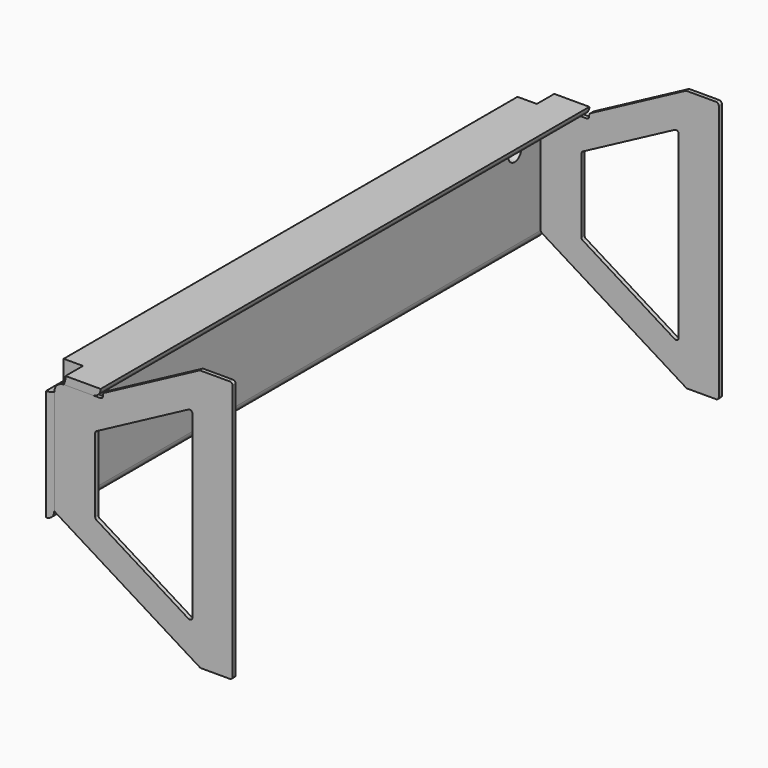
from build123d import *

# Parameters (mm, degrees)
F1_DEPTH  = 711.2
F2_R      = 22.225
F3_DEPTH  = 25.4
F4_R      = 22.225
F5_DEPTH  = 25.4
F6_R      = 9.525
F7_DEPTH  = 63.501
F9_DEPTH  = 4.572
F11_DEPTH = 4.572


with BuildPart() as f1:
    # F0 (on Front) → F1 (new body)
    with BuildSketch(Plane.XZ):
        with BuildLine():
            ThreePointArc((-46.844614, 105.246472), (-47.024219, 105.172077), (-47.098614, 104.992472))
            Line((-47.098614, 104.992472), (-47.098614, -47.153528))
            ThreePointArc((-47.098614, -47.153528), (-40.363422, -44.36372), (-37.573614, -37.628528))
            Line((-37.573614, -37.628528), (-37.573614, 86.196472))
            ThreePointArc((-37.573614, 86.196472), (-34.783806, 92.931664), (-28.048614, 95.721472))
            Line((-28.048614, 95.721472), (6.876386, 95.721472))
            ThreePointArc((6.876386, 95.721472), (13.611578, 98.51128), (16.401386, 105.246472))
            Line((16.401386, 105.246472), (-46.844614, 105.246472))
        make_face()
    extrude(amount=F1_DEPTH)

    # F2 (on face) → F3 (cut)
    with BuildSketch(Plane.XZ.offset(711.2)):
        with Locations((-46.665009, 104.812867)):
            Circle(F2_R)
    extrude(amount=-F3_DEPTH, mode=Mode.SUBTRACT)

    # F4 (on face) → F5 (cut)
    with BuildSketch(Plane(origin=(0, 0, 0), x_dir=(-1, 0, 0), z_dir=(0, 1, 0))):
        with Locations((46.665009, 104.812867)):
            Circle(F4_R)
    extrude(amount=-F5_DEPTH, mode=Mode.SUBTRACT)

    # F6 (on face) → F7 (cut, through all)
    with BuildSketch(Plane(origin=(-47.098614, 0, 0), x_dir=(0, -1, 0), z_dir=(-1, 0, 0))):
        with Locations((41.275, 57.367472)):
            Circle(F6_R)
        with Locations((669.925, 57.621472)):
            Circle(F6_R)
    extrude(amount=-F7_DEPTH, mode=Mode.SUBTRACT)


with BuildPart() as f9:
    # F8 (on face) → F9 (new body)
    with BuildSketch(Plane.XZ.offset(711.2)):
        with BuildLine():
            Line((131.165237, 161.450276), (20.805644, 102.675902))
            ThreePointArc((20.805644, 102.675902), (19.576044, 101.507878), (19.1231, 99.873546))
            Line((19.1231, 99.873546), (19.1231, 98.932497))
            ThreePointArc((19.1231, 98.932497), (18.193164, 96.687433), (15.9481, 95.757497))
            Line((15.9481, 95.757497), (-26.542613, 95.757497))
            ThreePointArc((-26.542613, 95.757497), (-34.354287, 92.401421), (-37.573614, 84.532404))
            Line((-37.573614, 84.532404), (-37.573614, -35.860095))
            ThreePointArc((-37.573614, -35.860095), (-37.172376, -37.405044), (-36.070075, -38.55951))
            Line((-36.070075, -38.55951), (131.796578, -142.501495))
            ThreePointArc((131.796578, -142.501495), (132.599137, -142.85587), (133.468039, -142.97708))
            Line((133.468039, -142.97708), (166.789943, -142.97708))
            ThreePointArc((166.789943, -142.97708), (169.035007, -142.047144), (169.964943, -139.80208))
            Line((169.964943, -139.80208), (169.964943, 158.64792))
            ThreePointArc((169.964943, 158.64792), (169.035007, 160.892984), (166.789943, 161.82292))
            Line((166.789943, 161.82292), (132.657692, 161.82292))
            ThreePointArc((132.657692, 161.82292), (131.888556, 161.728351), (131.165237, 161.450276))
        make_face()
        with BuildLine():
            ThreePointArc((118.692944, 117.465699), (121.819731, 117.385397), (123.360399, 114.663342))
            Line((123.360399, 114.663342), (123.360399, -94.199964))
            ThreePointArc((123.360399, -94.199964), (121.730349, -96.973726), (118.513938, -96.899379))
            Line((118.513938, -96.899379), (11.533456, -30.657732))
            ThreePointArc((11.533456, -30.657732), (10.431155, -29.503266), (10.029917, -27.958316))
            Line((10.029917, -27.958316), (10.029917, 57.688586))
            ThreePointArc((10.029917, 57.688586), (10.482862, 59.322918), (11.712462, 60.490943))
            Line((11.712462, 60.490943), (118.692944, 117.465699))
        make_face(mode=Mode.SUBTRACT)
    extrude(amount=-F9_DEPTH)


with BuildPart() as f11:
    # F10 (on Front) → F11 (new body)
    with BuildSketch(Plane.XZ):
        with BuildLine():
            Line((131.908847, 161.03541), (21.549254, 102.261036))
            ThreePointArc((21.549254, 102.261036), (20.319654, 101.093011), (19.86671, 99.458679))
            Line((19.86671, 99.458679), (19.86671, 98.51763))
            ThreePointArc((19.86671, 98.51763), (18.936774, 96.272566), (16.69171, 95.34263))
            Line((16.69171, 95.34263), (-25.799003, 95.34263))
            ThreePointArc((-25.799003, 95.34263), (-33.610677, 91.986554), (-36.830004, 84.117538))
            Line((-36.830004, 84.117538), (-36.830004, -36.274961))
            ThreePointArc((-36.830004, -36.274961), (-36.428767, -37.819911), (-35.326465, -38.974377))
            Line((-35.326465, -38.974377), (132.540188, -142.916362))
            ThreePointArc((132.540188, -142.916362), (133.342747, -143.270737), (134.211649, -143.391947))
            Line((134.211649, -143.391947), (167.533553, -143.391947))
            ThreePointArc((167.533553, -143.391947), (169.778617, -142.462011), (170.708553, -140.216947))
            Line((170.708553, -140.216947), (170.708553, 158.233053))
            ThreePointArc((170.708553, 158.233053), (169.778617, 160.478117), (167.533553, 161.408053))
            Line((167.533553, 161.408053), (133.401302, 161.408053))
            ThreePointArc((133.401302, 161.408053), (132.632166, 161.313484), (131.908847, 161.03541))
        make_face()
        with BuildLine():
            ThreePointArc((119.436554, 117.050832), (122.563341, 116.970531), (124.104009, 114.248476))
            Line((124.104009, 114.248476), (124.104009, -94.61483))
            ThreePointArc((124.104009, -94.61483), (122.473958, -97.388593), (119.257548, -97.314246))
            Line((119.257548, -97.314246), (12.277066, -31.072598))
            ThreePointArc((12.277066, -31.072598), (11.174765, -29.918132), (10.773527, -28.373183))
            Line((10.773527, -28.373183), (10.773527, 57.27372))
            ThreePointArc((10.773527, 57.27372), (11.226472, 58.908051), (12.456072, 60.076076))
            Line((12.456072, 60.076076), (119.436554, 117.050832))
        make_face(mode=Mode.SUBTRACT)
    extrude(amount=F11_DEPTH)


solid = Compound([f1.part, f9.part, f11.part])
